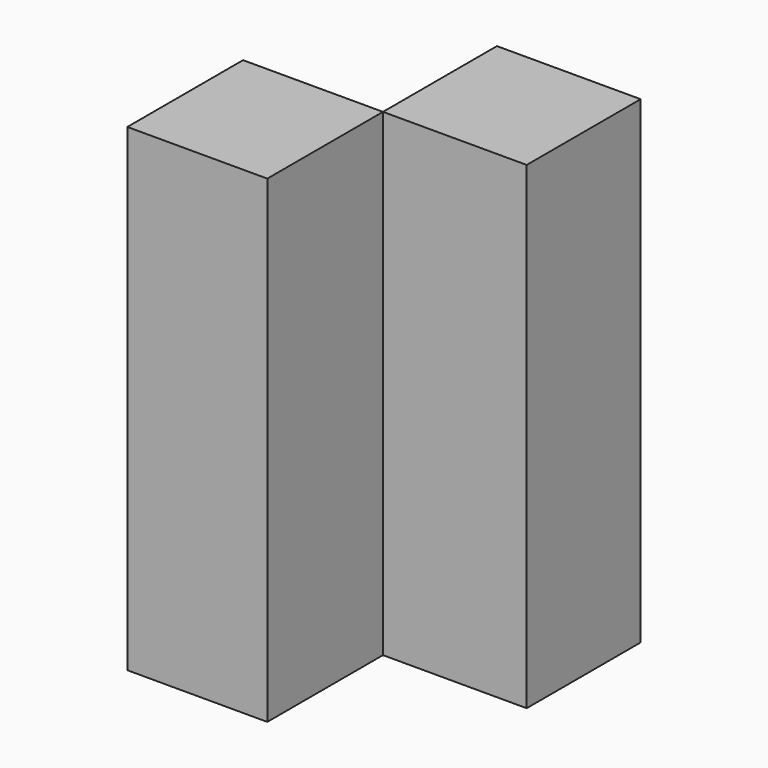
from build123d import *

# Parameters (mm, degrees)
F0_W     = 76.320156
F0_H     = 75.633988
F0_W_2   = 74.311763
F0_H_2   = 76.783225
F1_DEPTH = 254


with BuildPart() as f1:
    # F0 (on Top) → F1 (new body)
    with BuildSketch(Plane.XY):
        with Locations((38.160078, 37.816994)):
            Rectangle(F0_W, F0_H)
        with Locations((-37.155881, -38.391613)):
            Rectangle(F0_W_2, F0_H_2)
    extrude(amount=F1_DEPTH)


solid = f1.part
